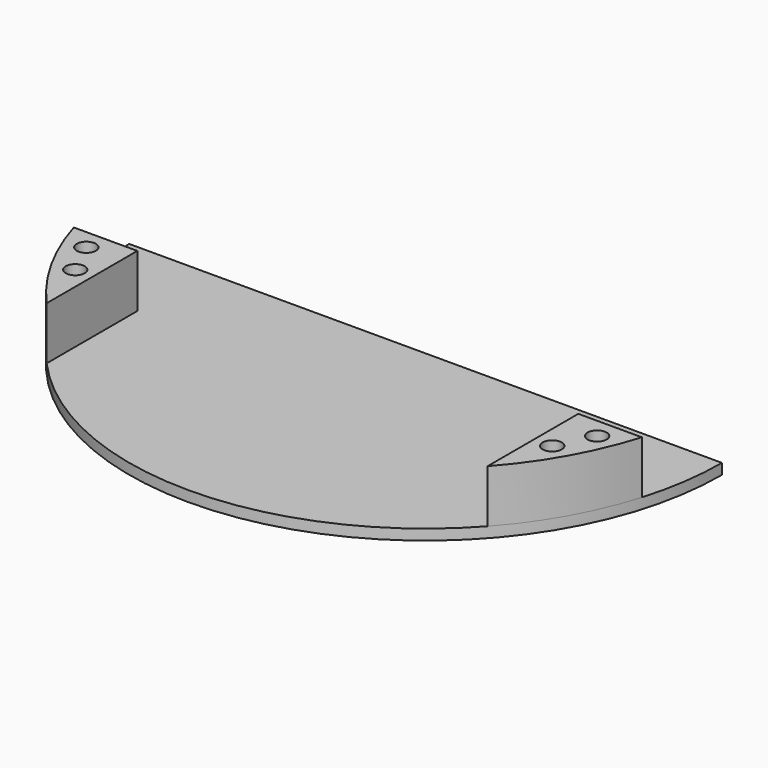
from build123d import *

# Parameters (mm, degrees)
F1_DEPTH = 1
F2_R     = 0.9
F3_DEPTH = 5
F4_DEPTH = 1.001


with BuildPart() as f1:
    # F0 (on Top) → F1 (new body)
    with BuildSketch(Plane.XY):
        with BuildLine():
            ThreePointArc((-96.1861413951, -113.2155081954), (-68.1861413951, -141.2155081954), (-40.1861413951, -113.2155081954))
            Line((-40.1861413951, -113.2155081954), (-96.1861413951, -113.2155081954))
        make_face()
    extrude(amount=F1_DEPTH)

    # F2 (on face) → F3 (join)
    with BuildSketch(Plane.XY.offset(1)):
        with BuildLine():
            Line((-89.0189571251, -121.2155081954), (-95.0189571251, -121.2155081954))
            ThreePointArc((-95.0189571251, -121.2155081954), (-92.6129518517, -126.9023972105), (-89.0189571251, -131.9236291261))
            Line((-89.0189571251, -131.9236291261), (-89.0189571251, -121.2155081954))
        make_face()
        with Locations((-90.7189571251, -126.4236291261)):
            Circle(F2_R, mode=Mode.SUBTRACT)
        with Locations((-92.3189571251, -123.1155081954)):
            Circle(F2_R, mode=Mode.SUBTRACT)
        with BuildLine():
            Line((-47.3533256651, -121.2155081954), (-47.3533256651, -131.9236291261))
            ThreePointArc((-47.3533256651, -131.9236291261), (-43.7593309384, -126.9023972105), (-41.3533256651, -121.2155081954))
            Line((-41.3533256651, -121.2155081954), (-47.3533256651, -121.2155081954))
        make_face()
        with Locations((-45.6533256651, -126.4236291261)):
            Circle(F2_R, mode=Mode.SUBTRACT)
        with Locations((-44.0533256651, -123.1155081954)):
            Circle(F2_R, mode=Mode.SUBTRACT)
    extrude(amount=F3_DEPTH)

    # F2 (on face) → F4 (cut, through all)
    with BuildSketch(Plane.XY.offset(1)):
        with Locations((-92.3189571251, -123.1155081954)):
            Circle(F2_R)
        with Locations((-90.7189571251, -126.4236291261)):
            Circle(F2_R)
        with Locations((-44.0533256651, -123.1155081954)):
            Circle(F2_R)
        with Locations((-45.6533256651, -126.4236291261)):
            Circle(F2_R)
    extrude(amount=-F4_DEPTH, mode=Mode.SUBTRACT)


solid = f1.part
